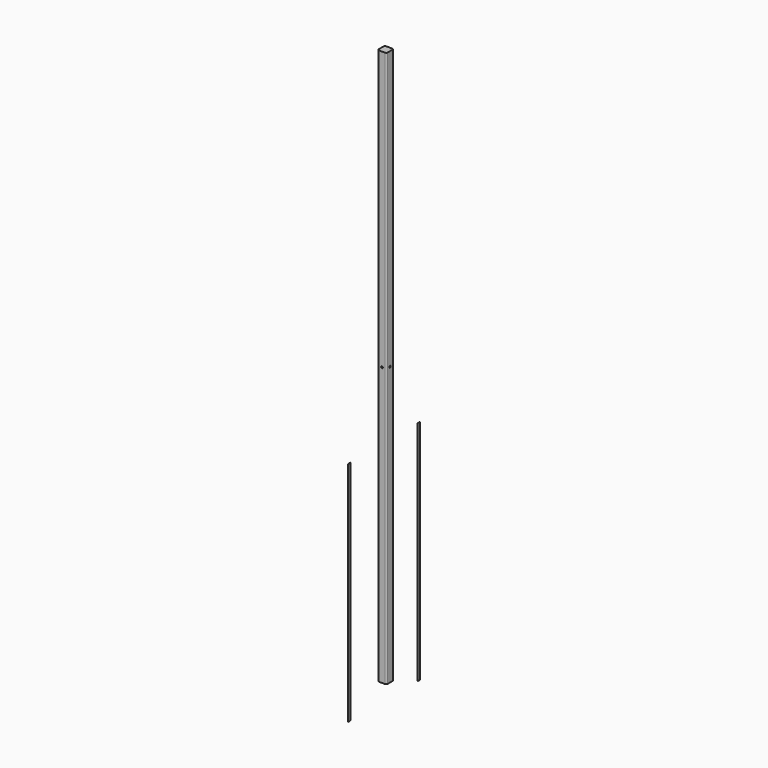
from build123d import *

# Parameters (mm, degrees)
F1_DEPTH = 2362.2
F2_W     = 12.7
F2_H     = 965.2
F4_DEPTH = 0.254
F3_W     = 12.7
F3_H     = 965.2
F5_DEPTH = 0.254
F7_DEPTH = 38.1
F9_DEPTH = 38.1


with BuildPart() as f1:
    # F0 (on Top) → F1 (new body)
    with BuildSketch(Plane.XY):
        with BuildLine():
            ThreePointArc((19.05, 12.7), (17.190128, 17.190128), (12.7, 19.05))
            Line((12.7, 19.05), (-12.7, 19.05))
            ThreePointArc((-12.7, 19.05), (-17.190128, 17.190128), (-19.05, 12.7))
            Line((-19.05, 12.7), (-19.05, -12.7))
            ThreePointArc((-19.05, -12.7), (-17.190128, -17.190128), (-12.7, -19.05))
            Line((-12.7, -19.05), (12.7, -19.05))
            ThreePointArc((12.7, -19.05), (17.190128, -17.190128), (19.05, -12.7))
            Line((19.05, -12.7), (19.05, 12.7))
        make_face()
    extrude(amount=F1_DEPTH)

    # F6 (on face) → F7 (cut)
    with BuildSketch(Plane.XZ.offset(19.05)):
        with BuildLine():
            ThreePointArc((0, 1177.29), (2.694077, 1178.405923), (3.81, 1181.1))
            ThreePointArc((3.81, 1181.1), (-2.694077, 1183.794077), (0, 1177.29))
        make_face()
    extrude(amount=-F7_DEPTH, mode=Mode.SUBTRACT)

    # F8 (on face) → F9 (cut)
    with BuildSketch(Plane.YZ.offset(19.05)):
        with BuildLine():
            ThreePointArc((0, 1177.29), (2.694077, 1178.405923), (3.81, 1181.1))
            ThreePointArc((3.81, 1181.1), (-2.694077, 1183.794077), (0, 1177.29))
        make_face()
    extrude(amount=-F9_DEPTH, mode=Mode.SUBTRACT)


with BuildPart() as f4:
    # F2 (on Right) → F4 (new body)
    with BuildSketch(Plane.YZ):
        with Locations((-192.550282, 409.951065)):
            Rectangle(F2_W, F2_H)
    extrude(amount=F4_DEPTH)


with BuildPart() as f5:
    # F3 (on Right) → F5 (new body)
    with BuildSketch(Plane.YZ):
        with Locations((175.864179, 412.127815)):
            Rectangle(F3_W, F3_H)
    extrude(amount=F5_DEPTH)


solid = Compound([f1.part, f4.part, f5.part])
